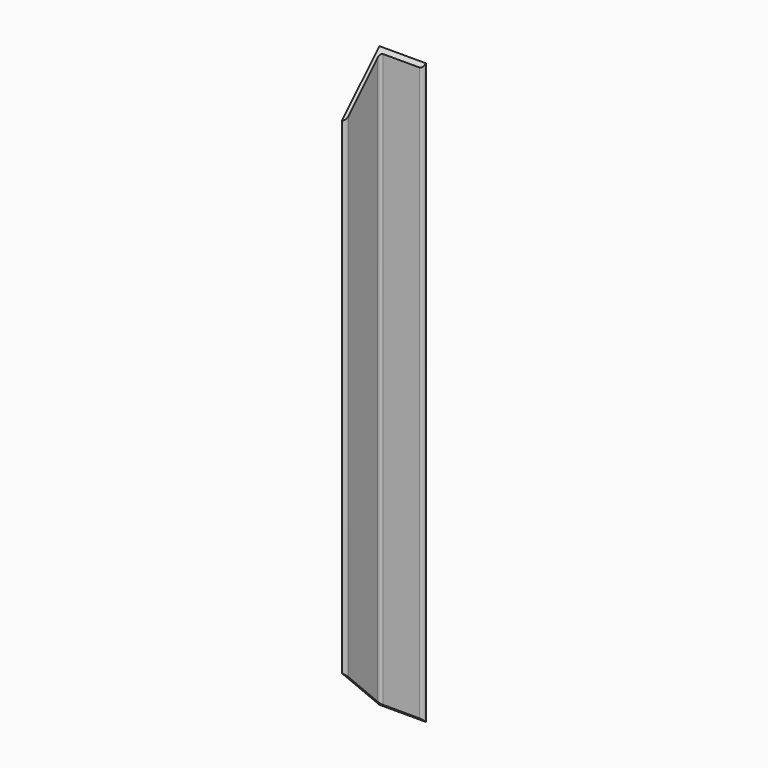
from build123d import *

# Parameters (mm, degrees)
F1_DEPTH = 12700
F3_DEPTH = 2032


with BuildPart() as f1:
    # F0 (on Top) → F1 (new body)
    with BuildSketch(Plane.XY):
        with BuildLine():
            Line((1016, 0), (0, 0))
            Line((0, 0), (0, -1016))
            ThreePointArc((0, -1016), (53.881537, -993.681537), (76.2, -939.8))
            Line((76.2, -939.8), (76.2, -139.7))
            ThreePointArc((76.2, -139.7), (94.798719, -94.798719), (139.7, -76.2))
            Line((139.7, -76.2), (939.8, -76.2))
            ThreePointArc((939.8, -76.2), (993.681537, -53.881537), (1016, 0))
        make_face()
    extrude(amount=F1_DEPTH)

    # F2 (on face) → F3 (cut)
    with BuildSketch(Plane(origin=(0, 0, 0), x_dir=(0, -1, 0), z_dir=(-1, 0, 0))):
        Polygon((1558.128027, 1558.128027), (0, 0), (2256.784678, -992.693126), align=None)
        Polygon((2495.949984, 14632.778168), (0, 12700), (1590.982127, 11109.017873), align=None)
    extrude(amount=-F3_DEPTH, mode=Mode.SUBTRACT)


solid = f1.part
